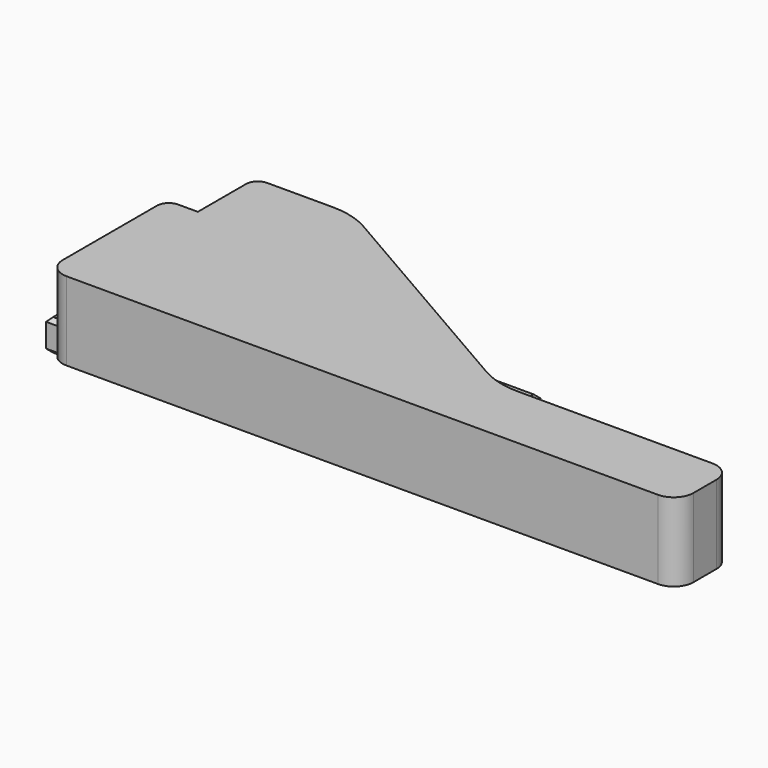
from build123d import *

# Parameters (mm, degrees)
F0_W      = 97.35
F0_H      = 35.65
F0_W_2    = 30.5
F0_H_2    = 10.3
F0_R      = 10.825
F0_R_2    = 4.1
F1_DEPTH  = 8
F2_R      = 1.55
F3_DEPTH  = 12
F4_SIZE   = 1
F6_DEPTH  = 20
F7_R      = 4.05
F8_DEPTH  = 152.501
F10_DEPTH = 20
F11_R     = 20
F12_R     = 5
F13_R     = 3


with BuildPart() as f1:
    # F0 (on Top) → F1 (new body)
    with BuildSketch(Plane.XY):
        with Locations((-19.65, 0)):
            Rectangle(F0_W, F0_H)
        with Locations((-46.075, 0)):
            Rectangle(F0_W_2, F0_H_2, mode=Mode.SUBTRACT)
        Circle(F0_R, mode=Mode.SUBTRACT)
        with Locations((19.925, 0)):
            Circle(F0_R_2, mode=Mode.SUBTRACT)
    extrude(amount=F1_DEPTH)

    # F2 (on face) → F3 (cut)
    with BuildSketch(Plane.XZ.offset(17.825)):
        with Locations((0, 4)):
            Circle(F2_R)
    extrude(amount=-F3_DEPTH, mode=Mode.SUBTRACT)

    # F4
    f4_edges = [f1.edges().sort_by_distance(p)[0] for p in [
        (-19.65, 17.825, 8),
        (-68.325, 0, 8),
        (-19.65, -17.825, 8),
        (29.025, 0, 8),
        (-61.325, 0, 8),
        (-46.075, 5.15, 8),
        (-30.825, 0, 8),
        (-46.075, -5.15, 8),
        (-10.825, 0, 8),
        (15.825, 0, 8),
        (-19.65, 17.825, 0),
        (-68.325, 0, 0),
        (-19.65, -17.825, 0),
        (29.025, 0, 0),
        (-61.325, 0, 0),
        (-46.075, 5.15, 0),
        (-30.825, 0, 0),
        (-46.075, -5.15, 0),
        (-10.825, 0, 0),
        (15.825, 0, 0),
        (-1.55, -17.825, 4),
    ]]
    chamfer(f4_edges, length=F4_SIZE)


with BuildPart() as f6:
    # F5 (on Top) → F6 (new body)
    with BuildSketch(Plane.XY):
        Polygon((-33.75, 36.8060796608), (-58.75, 36.8060796608), (-58.75, 19.4855715851), (-33.75, 19.4855715851), (33.75, -19.4855715851), (93.75, -19.4855715851), (93.75, -2.1650635095), (33.75, -2.1650635095), align=None)
    extrude(amount=F6_DEPTH)

    # F7 (on face) → F8 (cut, through all)
    with BuildSketch(Plane(origin=(-58.75, 0, 0), x_dir=(0, -1, 0), z_dir=(-1, 0, 0))):
        with Locations((-28.145825623, 10)):
            Circle(F7_R)
    extrude(amount=-F8_DEPTH, mode=Mode.SUBTRACT)

    # F9 (on Top) → F10 (join)
    with BuildSketch(Plane.XY):
        Polygon((-33.75, 19.4855715851), (-58.75, 19.4855715851), (-58.75, 18.4855715851), (-66.75, 18.4855715851), (-66.75, -19.4855715851), (33.75, -19.4855715851), align=None)
    extrude(amount=F10_DEPTH)

    # F11
    f11_edges = [f6.edges().sort_by_distance(p)[0] for p in [
        (-33.75, 36.80608, 10),
        (33.75, -2.165064, 10),
    ]]
    fillet(f11_edges, radius=F11_R)

    # F12
    f12_edges = [f6.edges().sort_by_distance(p)[0] for p in [
        (93.75, -2.165064, 10),
        (93.75, -19.485572, 10),
        (-66.75, -19.485572, 10),
    ]]
    fillet(f12_edges, radius=F12_R)

    # F13
    f13_edges = [f6.edges().sort_by_distance(p)[0] for p in [
        (-66.75, 18.485572, 10),
        (-58.75, 36.80608, 10),
    ]]
    fillet(f13_edges, radius=F13_R)


solid = Compound([f1.part, f6.part])
